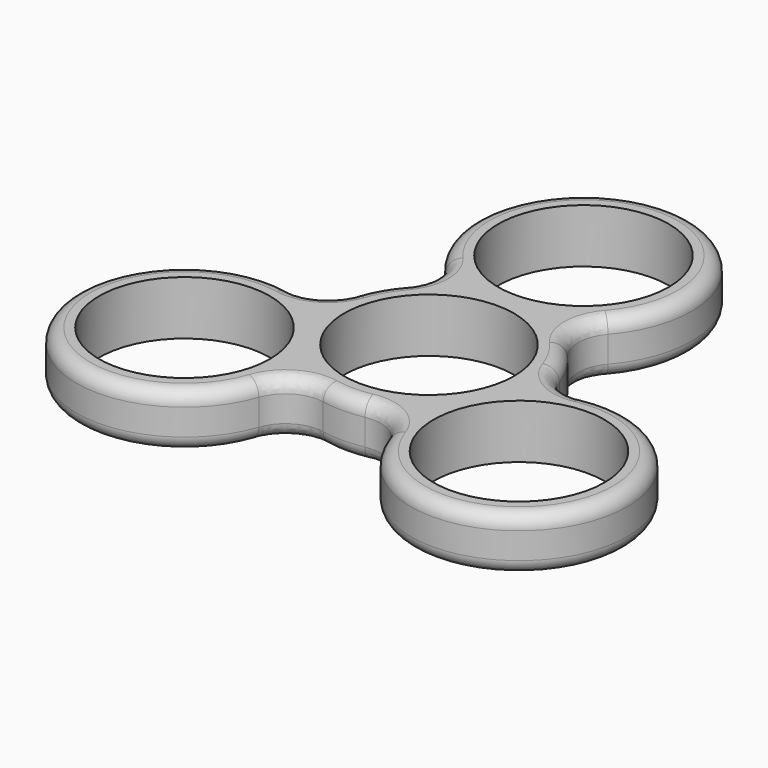
from build123d import *

# Parameters (mm, degrees)
F0_R     = 11.05
F0_R_2   = 11
F1_DEPTH = 7
F2_R     = 5
F3_R     = 1.8


with BuildPart() as f1:
    # F0 (on Top) → F1 (new body)
    with BuildSketch(Plane.XY):
        with BuildLine():
            ThreePointArc((6.30476, 12.5), (0, 39), (-6.30476, 12.5))
            ThreePointArc((-6.30476, 12.5), (-12.124356, 7), (-13.977698, -0.789918))
            ThreePointArc((-13.977698, -0.789918), (-33.774991, -19.5), (-7.672937, -11.710082))
            ThreePointArc((-7.672937, -11.710082), (0, -14), (7.672937, -11.710082))
            ThreePointArc((7.672937, -11.710082), (33.774991, -19.5), (13.977698, -0.789918))
            ThreePointArc((13.977698, -0.789918), (12.124356, 7), (6.30476, 12.5))
        make_face()
        with Locations((-21.650635, -12.5)):
            Circle(F0_R, mode=Mode.SUBTRACT)
        with Locations((21.650635, -12.5)):
            Circle(F0_R, mode=Mode.SUBTRACT)
        Circle(F0_R_2, mode=Mode.SUBTRACT)
        with Locations((0, 25)):
            Circle(F0_R, mode=Mode.SUBTRACT)
    extrude(amount=F1_DEPTH)

    # F2
    f2_edges = [f1.edges().sort_by_distance(p)[0] for p in [
        (-7.672937, -11.710082, 3.5),
        (7.672937, -11.710082, 3.5),
        (13.977698, -0.789918, 3.5),
        (6.30476, 12.5, 3.5),
        (-6.30476, 12.5, 3.5),
        (-13.977698, -0.789918, 3.5),
    ]]
    fillet(f2_edges, radius=F2_R)

    # F3
    f3_edges = [f1.edges().sort_by_distance(p)[0] for p in [
        (0, 39, 7),
        (0, 39, 0),
    ]]
    fillet(f3_edges, radius=F3_R)


solid = f1.part
